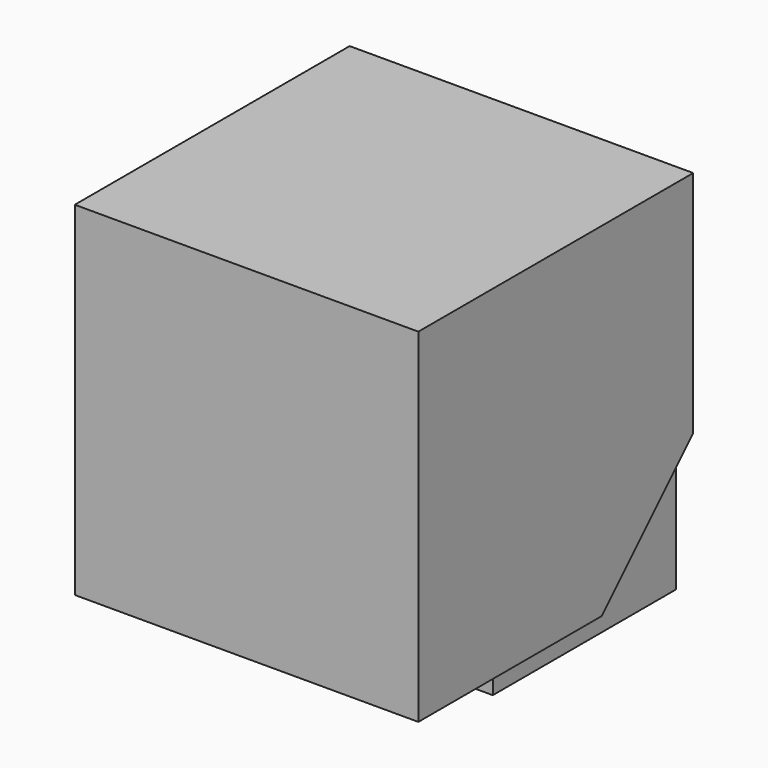
from build123d import *

# Parameters (mm, degrees)
F0_W     = 19.05
F0_H     = 19.05
F1_DEPTH = 19.05
F4_DEPTH = 19.05
F5_W     = 12.7
F5_H     = 12.7
F6_DEPTH = 4.7625


with BuildPart() as f1:
    # F0 (on Front) → F1 (new body)
    with BuildSketch(Plane.XZ):
        with Locations((9.525, 9.525)):
            Rectangle(F0_W, F0_H)
    extrude(amount=-F1_DEPTH)

    # F3 (on face) → F4 (cut)
    with BuildSketch(Plane.YZ.offset(19.05)):
        Polygon((19.05, 6.35), (12.7, 0), (19.05, 0), align=None)
    extrude(amount=-F4_DEPTH, mode=Mode.SUBTRACT)

    # F5 (on offset) → F6 (join, symmetric)
    with BuildSketch(Plane.YZ.offset(9.525)):
        with Locations((17.4625, 1.5875)):
            Rectangle(F5_W, F5_H)
    extrude(amount=F6_DEPTH, both=True)


solid = f1.part
